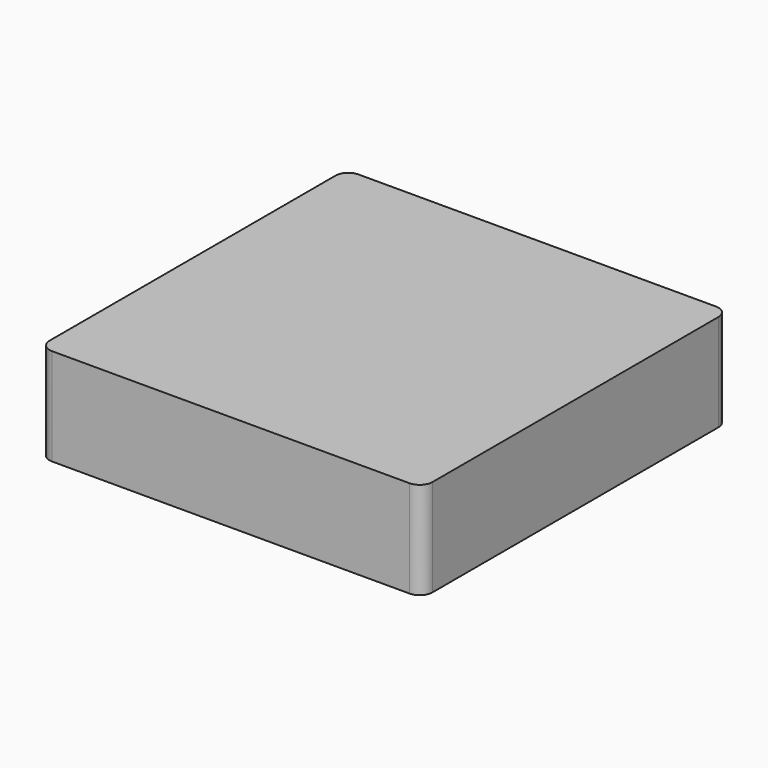
from build123d import *

# Parameters (mm, degrees)
F1_DEPTH = 40
F3_DEPTH = 35


with BuildPart() as f1:
    # F0 (on Top) → F1 (new body)
    with BuildSketch(Plane.XY):
        with BuildLine():
            Line((73.507474, 79.266992), (-73.638234, 79.266992))
            ThreePointArc((-73.638234, 79.266992), (-77.353579, 77.728046), (-78.892526, 74.0127))
            Line((-78.892526, 74.0127), (-78.892526, -73.133008))
            ThreePointArc((-78.892526, -73.133008), (-77.353579, -76.848354), (-73.638234, -78.3873))
            Line((-73.638234, -78.3873), (73.507474, -78.3873))
            ThreePointArc((73.507474, -78.3873), (77.22282, -76.848354), (78.761766, -73.133008))
            Line((78.761766, -73.133008), (78.761766, 74.0127))
            ThreePointArc((78.761766, 74.0127), (77.22282, 77.728046), (73.507474, 79.266992))
        make_face()
    extrude(amount=F1_DEPTH)

    # F2 (on face) → F3 (cut)
    with BuildSketch(Plane(origin=(0, 0, 0), x_dir=(1, 0, 0), z_dir=(0, 0, -1))):
        with BuildLine():
            Line((68.427474, 73.133008), (-68.558234, 73.133008))
            ThreePointArc((-68.558234, 73.133008), (-72.150336, 71.64511), (-73.638234, 68.053008))
            Line((-73.638234, 68.053008), (-73.638234, -68.9327))
            ThreePointArc((-73.638234, -68.9327), (-72.150336, -72.524802), (-68.558234, -74.0127))
            Line((-68.558234, -74.0127), (68.427474, -74.0127))
            ThreePointArc((68.427474, -74.0127), (72.019576, -72.524802), (73.507474, -68.9327))
            Line((73.507474, -68.9327), (73.507474, 68.053008))
            ThreePointArc((73.507474, 68.053008), (72.019576, 71.64511), (68.427474, 73.133008))
        make_face()
    extrude(amount=-F3_DEPTH, mode=Mode.SUBTRACT)


solid = f1.part
